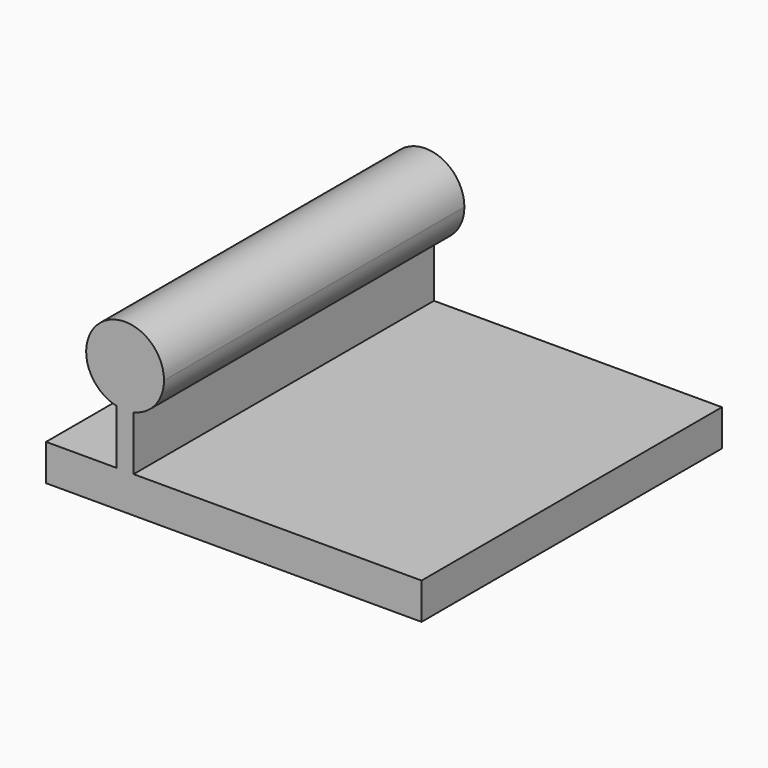
from build123d import *

# Parameters (mm, degrees)
F1_DEPTH = 152.4


with BuildPart() as f1:
    # F0 (on Front) → F1 (new body)
    with BuildSketch(Plane.XZ):
        with BuildLine():
            Line((-76.2, 0), (76.2, 0))
            Line((76.2, 0), (76.2, 14.7814704105))
            Line((76.2, 14.7814704105), (-40.6841884647, 14.7814704105))
            Line((-40.6841884647, 14.7814704105), (-40.6841884647, 36.9066577405))
            ThreePointArc((-40.6841884647, 36.9066577405), (-44.1304871161, 36.5262323772), (-47.5767857675, 36.9066577405))
            Line((-47.5767857675, 36.9066577405), (-47.5767857675, 14.7814704105))
            Line((-47.5767857675, 14.7814704105), (-76.2, 14.7814704105))
            Line((-76.2, 14.7814704105), (-76.2, 0))
        make_face()
        with BuildLine():
            ThreePointArc((-47.5767857675, 36.9066577405), (-44.1304871161, 36.5262323772), (-40.6841884647, 36.9066577405))
            Line((-40.6841884647, 36.9066577405), (-47.5767857675, 36.9066577405))
        make_face()
        with BuildLine():
            Line((-47.5767857675, 36.9066577405), (-40.6841884647, 36.9066577405))
            ThreePointArc((-40.6841884647, 36.9066577405), (-31.7995640387, 42.4473495266), (-28.3301501596, 52.3265693337))
            ThreePointArc((-28.3301501596, 52.3265693337), (-54.0097069231, 64.6574924111), (-47.5767857675, 36.9066577405))
        make_face()
    extrude(amount=-F1_DEPTH)


solid = f1.part
